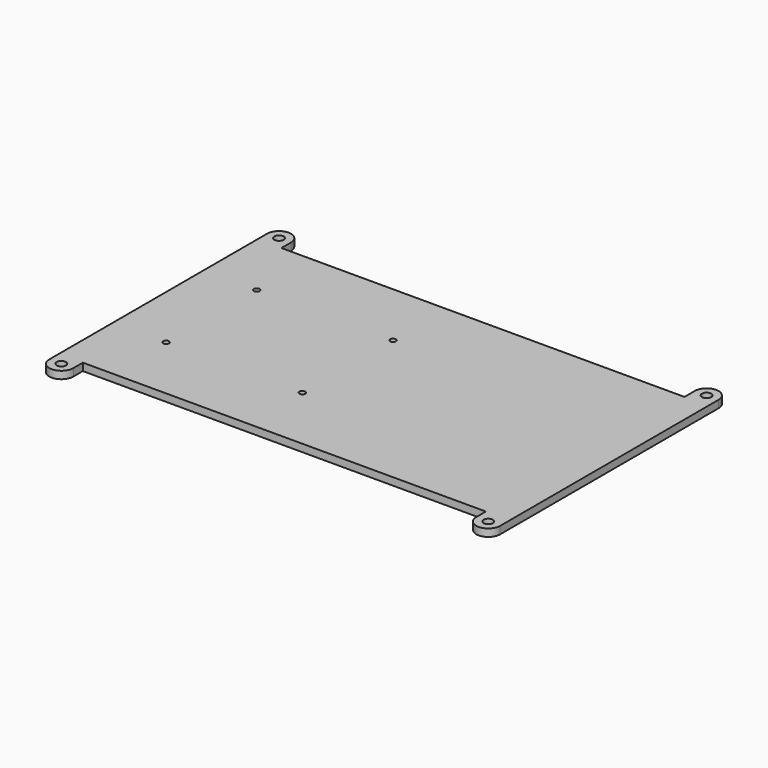
from build123d import *

# Parameters (mm, degrees)
F0_R     = 1.9939
F0_R_2   = 1.25
F1_DEPTH = 3.175


with BuildPart() as f1:
    # F0 (on Top) → F1 (new body)
    with BuildSketch(Plane.XY):
        with BuildLine():
            Line((337.317243, 105.664), (165.765643, 105.664))
            Line((165.765643, 105.664), (165.765643, 110.744))
            ThreePointArc((165.765643, 110.744), (160.685643, 115.824), (155.605643, 110.744))
            Line((155.605643, 110.744), (155.605643, -5.08))
            ThreePointArc((155.605643, -5.08), (160.685643, -10.16), (165.765643, -5.08))
            Line((165.765643, -5.08), (165.765643, 0))
            Line((165.765643, 0), (337.317243, 0))
            Line((337.317243, 0), (337.317243, -5.08))
            ThreePointArc((337.317243, -5.08), (342.397243, -10.16), (347.477243, -5.08))
            Line((347.477243, -5.08), (347.477243, 111.128844))
            ThreePointArc((347.477243, 111.128844), (342.397243, 116.208844), (337.317243, 111.128844))
            Line((337.317243, 111.128844), (337.317243, 105.664))
        make_face()
        with Locations((160.685643, -5.08)):
            Circle(F0_R, mode=Mode.SUBTRACT)
        with Locations((178.237043, 28.718544)):
            Circle(F0_R_2, mode=Mode.SUBTRACT)
        with Locations((236.244986, 28.718544)):
            Circle(F0_R_2, mode=Mode.SUBTRACT)
        with Locations((342.397243, -5.08)):
            Circle(F0_R, mode=Mode.SUBTRACT)
        with Locations((178.237043, 76.945456)):
            Circle(F0_R_2, mode=Mode.SUBTRACT)
        with Locations((236.244986, 76.945456)):
            Circle(F0_R_2, mode=Mode.SUBTRACT)
        with Locations((160.685643, 110.744)):
            Circle(F0_R, mode=Mode.SUBTRACT)
        with Locations((342.397243, 111.128844)):
            Circle(F0_R, mode=Mode.SUBTRACT)
    extrude(amount=F1_DEPTH)


solid = f1.part
